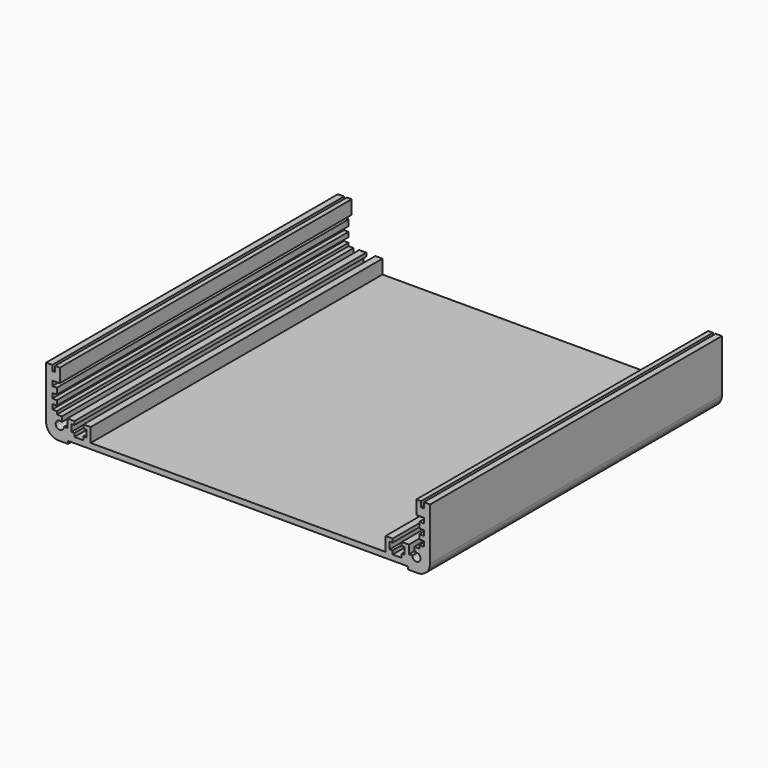
from build123d import *

# Parameters (mm, degrees)
F1_DEPTH = 133


with BuildPart() as f1:
    # F0 (on Front) → F1 (new body)
    with BuildSketch(Plane.XZ):
        with BuildLine():
            Line((-67.75, 6), (-70, 6))
            Line((-70, 6), (-70, -13))
            ThreePointArc((-70, -13), (-68.681981, -16.181981), (-65.5, -17.5))
            Line((-65.5, -17.5), (-62, -17.5))
            Line((-62, -17.5), (-62, -16.5))
            Line((-62, -16.5), (0, -16.5))
            Line((0, -16.5), (0, -14.5))
            Line((0, -14.5), (-53.75, -14.5))
            Line((-53.75, -14.5), (-53.75, -9.4))
            Line((-53.75, -9.4), (-56.35, -9.4))
            Line((-56.35, -9.4), (-56.35, -10.7))
            Line((-56.35, -10.7), (-55.25, -10.7))
            Line((-55.25, -10.7), (-55.25, -13.2))
            Line((-55.25, -13.2), (-56.35, -13.2))
            Line((-56.35, -13.2), (-56.35, -14.5))
            Line((-56.35, -14.5), (-59.65, -14.5))
            Line((-59.65, -14.5), (-59.65, -13.2))
            Line((-59.65, -13.2), (-60.75, -13.2))
            Line((-60.75, -13.2), (-60.75, -10.7))
            Line((-60.75, -10.7), (-59.65, -10.7))
            Line((-59.65, -10.7), (-59.65, -9.4))
            Line((-59.65, -9.4), (-62.25, -9.4))
            Line((-62.25, -9.4), (-62.25, -12.5))
            Line((-62.25, -12.5), (-63.5, -12.5))
            ThreePointArc((-63.5, -12.5), (-66.299038, -13.25), (-64.25, -11.200962))
            Line((-64.25, -11.200962), (-64.25, -9.4))
            Line((-64.25, -9.4), (-66.1, -9.4))
            Line((-66.1, -9.4), (-66.1, -8.3))
            Line((-66.1, -8.3), (-67.75, -8.3))
            Line((-67.75, -8.3), (-67.75, -6.5))
            Line((-67.75, -6.5), (-66.1, -6.5))
            Line((-66.1, -6.5), (-66.1, -4.8))
            Line((-66.1, -4.8), (-67.75, -4.8))
            Line((-67.75, -4.8), (-67.75, -3))
            Line((-67.75, -3), (-66.1, -3))
            Line((-66.1, -3), (-66.1, -0.8))
            Line((-66.1, -0.8), (-67.75, -0.8))
            Line((-67.75, -0.8), (-67.75, 1))
            Line((-67.75, 1), (-65, 1))
            Line((-65, 1), (-65, 6))
            Line((-65, 6), (-66.75, 6))
            Line((-66.75, 6), (-66.75, 4))
            Line((-66.75, 4), (-67.75, 4))
            Line((-67.75, 4), (-67.75, 6))
        make_face()
    extrude(amount=-F1_DEPTH)

    # F2: F1 across face


with BuildPart() as f1_1:
    add(f1.part)
    add(f1.part.mirror(Plane(origin=(0, 66.5, -15.5), x_dir=(0, 1, 0), z_dir=(1, 0, 0))))


solid = f1_1.part
